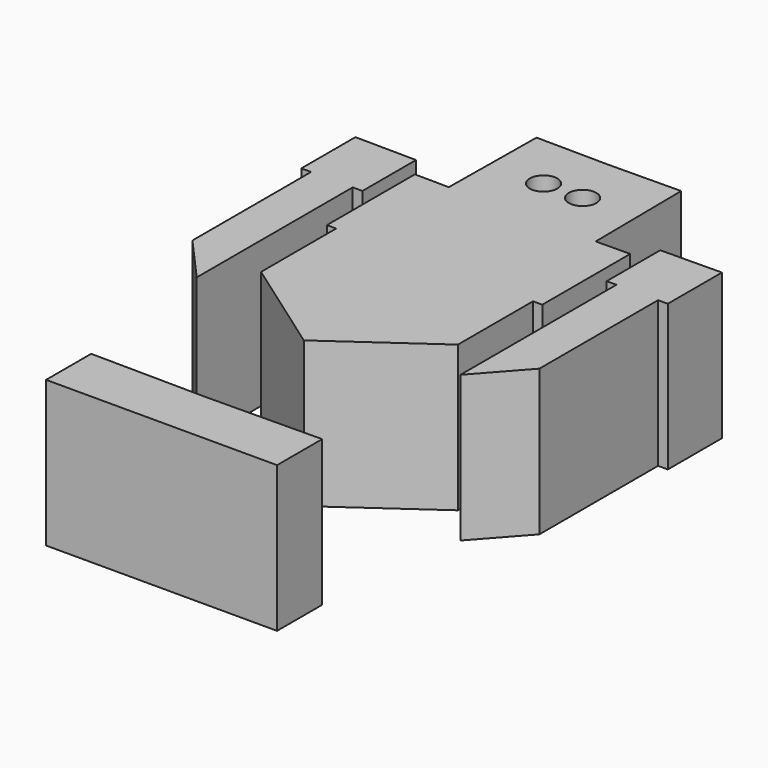
from build123d import *

# Parameters (mm, degrees)
F1_R     = 2.359873
F2_DEPTH = 25


with BuildPart() as f2:
    # F1 (on Top) → F2 (new body)
    with BuildSketch(Plane.XY):
        Polygon((-20.924984, 22.184219), (-31.401802, 22.295674), (-31.401802, 10.7043), (-29.72997, 10.7043), (-22.596437, 10.7043), (-20.924984, 10.7043), align=None)
        Polygon((-22.596437, 10.7043), (-29.72997, 10.7043), (-29.72997, -14.707558), (-22.596437, -14.783446), align=None)
        Polygon((-22.596437, -14.783446), (-29.72997, -14.707558), (-22.596437, -22.708369), align=None)
        Polygon((-16.867362, -16.081186), (0, -28.010119), (16.867362, -16.081186), (0, -16.260625), align=None)
        Polygon((-19.790943, -48.819479), (-19.790943, -58.478526), (19.790943, -58.478526), (19.790943, -48.819479), (12.898882, -48.892798), (0, -49.03002), (-12.898882, -48.892798), align=None)
        Polygon((-16.867362, 0), (-16.867362, -16.081186), (0, -16.260625), (16.867362, -16.081186), (16.867362, 0), (0, 0), align=None)
        Polygon((-18.454387, 0), (-16.867362, 0), (0, 0), (0, 18.645264), (-12.587854, 18.779177), (-18.454387, 18.841587), align=None)
        Polygon((0, 0), (16.867362, 0), (18.454387, 0), (18.454387, 18.841587), (12.587854, 18.779177), (0, 18.645264), align=None)
        Polygon((-12.587854, 18.779177), (0, 18.645264), (12.587854, 18.779177), (12.390475, 37.332833), (0, 37.20102), (-12.390475, 37.332833), align=None)
        with Locations((-3.347904, 27.525691)):
            Circle(F1_R, mode=Mode.SUBTRACT)
        with Locations((3.347904, 27.525691)):
            Circle(F1_R, mode=Mode.SUBTRACT)
        Polygon((31.401802, 22.295674), (20.924984, 22.184219), (20.924984, 10.7043), (22.596437, 10.7043), (29.72997, 10.7043), (31.401802, 10.7043), align=None)
        Polygon((29.72997, 10.7043), (22.596437, 10.7043), (22.596437, -14.783446), (29.72997, -14.707558), align=None)
        Polygon((29.72997, -14.707558), (22.596437, -14.783446), (22.596437, -22.708369), align=None)
    extrude(amount=-F2_DEPTH)


solid = f2.part
